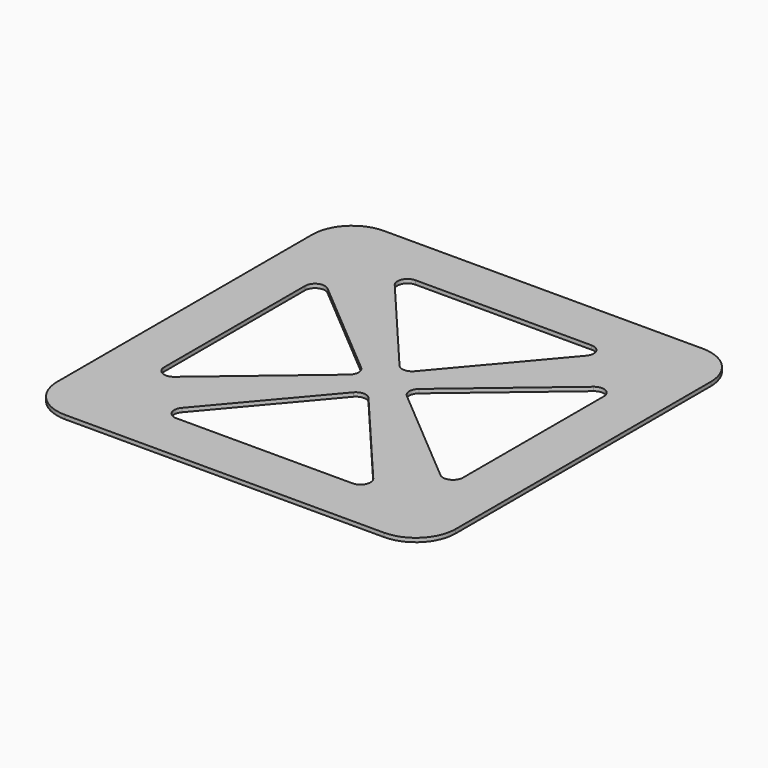
from build123d import *

# Parameters (mm, degrees)
F0_W     = 50.8
F0_H     = 50.8
F1_DEPTH = 0.5
F2_R     = 1.27
F3_R     = 5.08


with BuildPart() as f1:
    # F0 (on Top) → F1 (new body)
    with BuildSketch(Plane.XY):
        Rectangle(F0_W, F0_H)
        Polygon((0, -2.54), (13.97, -19.05), (-13.97, -19.05), align=None, mode=Mode.SUBTRACT)
        Polygon((-19.05, 13.97), (-2.54, 0), (-19.05, -13.97), align=None, mode=Mode.SUBTRACT)
        Polygon((19.05, -13.97), (2.54, 0), (19.05, 13.97), align=None, mode=Mode.SUBTRACT)
        Polygon((13.97, 19.05), (0, 2.54), (-13.97, 19.05), align=None, mode=Mode.SUBTRACT)
    extrude(amount=F1_DEPTH)

    # F2
    f2_edges = [f1.edges().sort_by_distance(p)[0] for p in [
        (0, -2.54, 0.25),
        (-19.05, 13.97, 0.25),
        (-13.97, -19.05, 0.25),
        (2.54, 0, 0.25),
        (19.05, -13.97, 0.25),
        (13.97, -19.05, 0.25),
        (-2.54, 0, 0.25),
        (0, 2.54, 0.25),
        (19.05, 13.97, 0.25),
        (13.97, 19.05, 0.25),
        (-19.05, -13.97, 0.25),
        (-13.97, 19.05, 0.25),
    ]]
    fillet(f2_edges, radius=F2_R)

    # F3
    f3_edges = [f1.edges().sort_by_distance(p)[0] for p in [
        (25.4, 25.4, 0.25),
        (-25.4, 25.4, 0.25),
        (-25.4, -25.4, 0.25),
        (25.4, -25.4, 0.25),
    ]]
    fillet(f3_edges, radius=F3_R)


solid = f1.part
